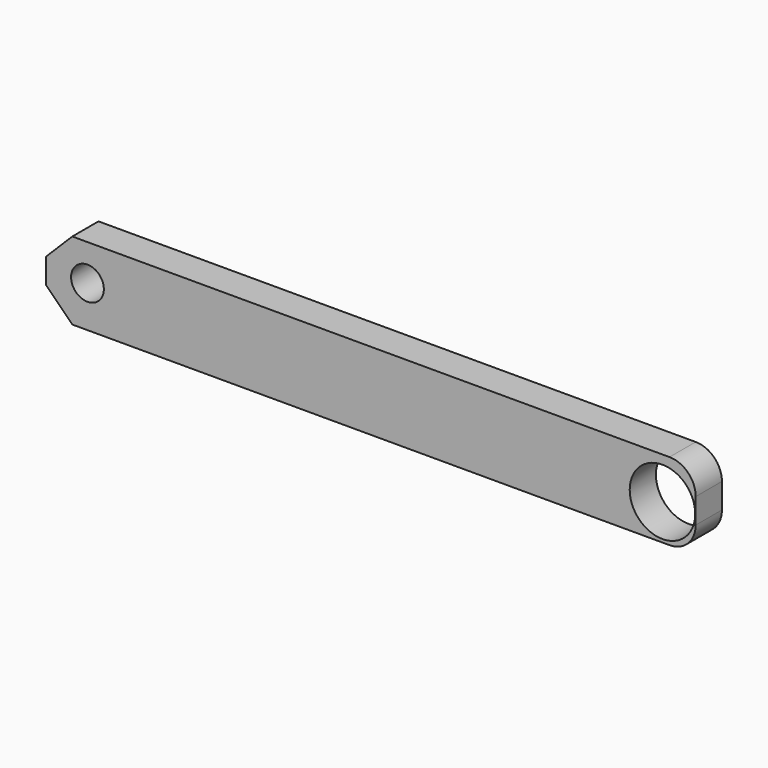
from build123d import *

# Parameters (mm, degrees)
F0_W     = 125.926391
F0_H     = 15.030515
F1_DEPTH = 6.35
F2_R     = 5.08
F3_SIZE  = 5.08
F5_D     = 12.7
F7_D     = 6.35


with BuildPart() as f1:
    # F0 (on Front) → F1 (new body)
    with BuildSketch(Plane.XZ):
        with Locations((4.490822, 17.321752)):
            Rectangle(F0_W, F0_H)
    extrude(amount=F1_DEPTH)

    # F2
    f2_edges = [f1.edges().sort_by_distance(p)[0] for p in [
        (67.454018, -3.175, 24.83701),
        (67.454018, -3.175, 9.806495),
    ]]
    fillet(f2_edges, radius=F2_R)

    # F3
    f3_edges = [f1.edges().sort_by_distance(p)[0] for p in [
        (-58.472373, -3.175, 24.83701),
        (-58.472373, -3.175, 9.806495),
    ]]
    chamfer(f3_edges, length=F3_SIZE)

    # F5 (through all)
    with Locations(Plane.XZ.offset(6.35)):
        with Locations((61.007891, 16.751822)):
            Hole(F5_D / 2)

    # F7 (through all)
    with Locations(Plane.XZ.offset(6.35)):
        with Locations((-50.448395, 17.818419)):
            Hole(F7_D / 2)


solid = f1.part
